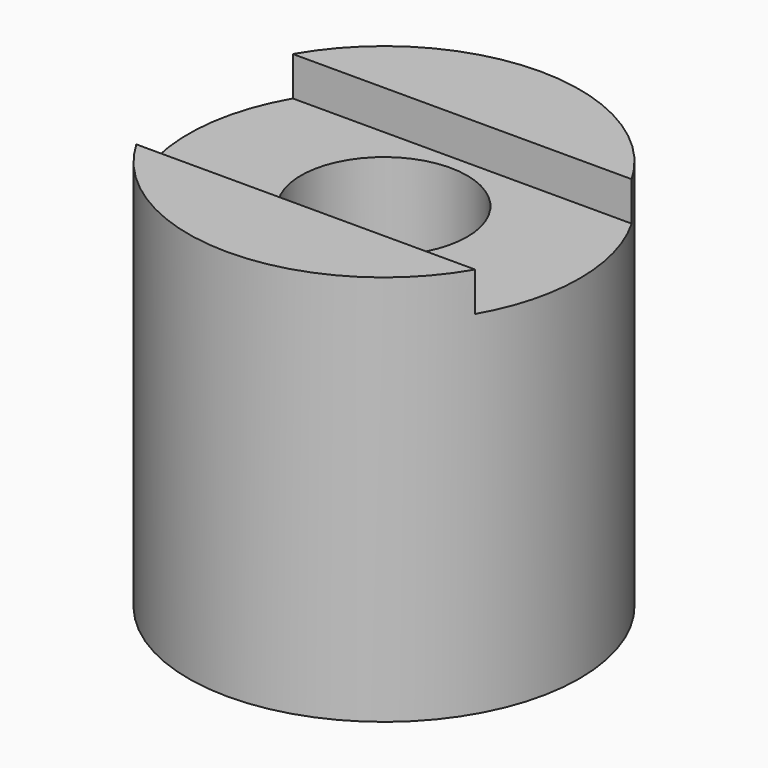
from build123d import *

# Parameters (mm, degrees)
F0_R     = 10
F1_DEPTH = 20
F2_R     = 4.25
F3_DEPTH = 20.001
F4_W     = 23.145964
F4_H     = 10
F5_DEPTH = 2


with BuildPart() as f1:
    # F0 (on Top) → F1 (new body)
    with BuildSketch(Plane.XY):
        Circle(F0_R)
    extrude(amount=-F1_DEPTH)

    # F2 (on Top) → F3 (cut, through all)
    with BuildSketch(Plane.XY):
        Circle(F2_R)
    extrude(amount=-F3_DEPTH, mode=Mode.SUBTRACT)

    # F4 (on face) → F5 (cut)
    with BuildSketch(Plane.XY):
        Rectangle(F4_W, F4_H)
    extrude(amount=-F5_DEPTH, mode=Mode.SUBTRACT)


solid = f1.part
